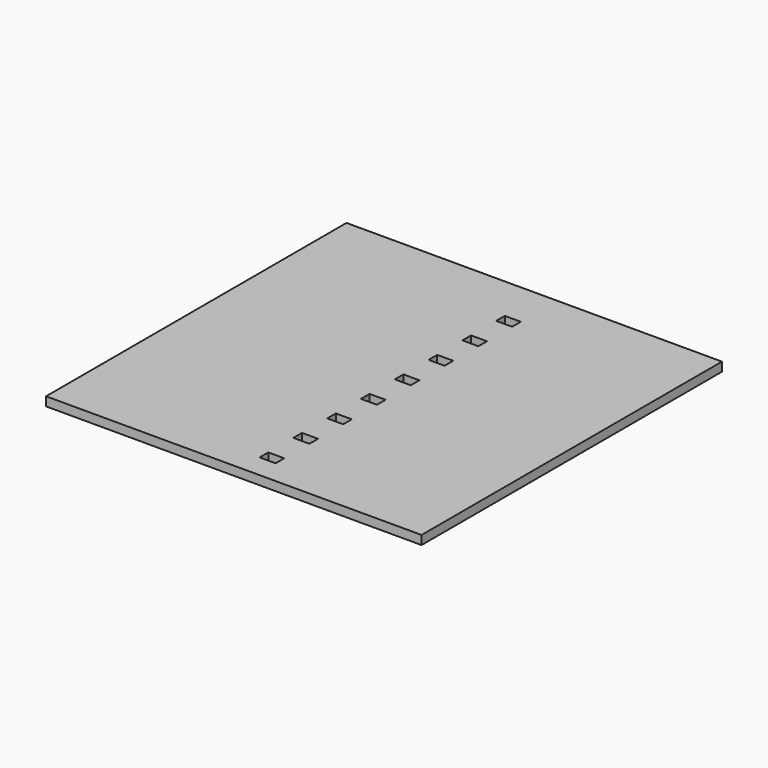
from build123d import *

# Parameters (mm, degrees)
F0_W     = 80
F0_H     = 80
F0_W_2   = 3.4
F0_H_2   = 2.3
F1_DEPTH = 1.9


with BuildPart() as f1:
    # F0 (on Top) → F1 (new body)
    with BuildSketch(Plane.XY):
        with Locations((40, 40)):
            Rectangle(F0_W, F0_H)
        with Locations((43.2, 6.15)):
            Rectangle(F0_W_2, F0_H_2, mode=Mode.SUBTRACT)
        with Locations((43.2, 15.15)):
            Rectangle(F0_W_2, F0_H_2, mode=Mode.SUBTRACT)
        with Locations((43.2, 24.15)):
            Rectangle(F0_W_2, F0_H_2, mode=Mode.SUBTRACT)
        with Locations((43.2, 33.15)):
            Rectangle(F0_W_2, F0_H_2, mode=Mode.SUBTRACT)
        with Locations((43.2, 42.15)):
            Rectangle(F0_W_2, F0_H_2, mode=Mode.SUBTRACT)
        with Locations((43.2, 51.15)):
            Rectangle(F0_W_2, F0_H_2, mode=Mode.SUBTRACT)
        with Locations((43.2, 60.15)):
            Rectangle(F0_W_2, F0_H_2, mode=Mode.SUBTRACT)
        with Locations((43.2, 69.15)):
            Rectangle(F0_W_2, F0_H_2, mode=Mode.SUBTRACT)
    extrude(amount=F1_DEPTH)


solid = f1.part
